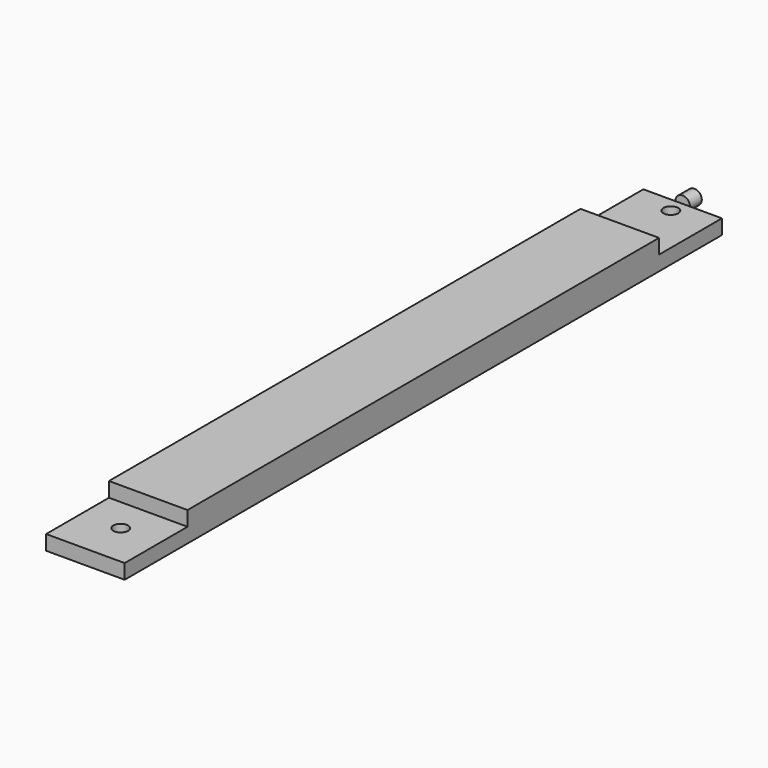
from build123d import *

# Parameters (mm, degrees)
F1_DEPTH = 25.4
F2_R     = 4.7625
F3_DEPTH = 25.4
F5_R     = 4.7625
F6_DEPTH = 9.525


with BuildPart() as f1:
    # F0 (on Right) → F1 (new body, symmetric)
    with BuildSketch(Plane.YZ):
        Polygon((0, -9.525), (482.6, -9.525), (482.6, 0), (431.8, 0), (431.8, 9.525), (50.8, 9.525), (50.8, 0), (0, 0), align=None)
    extrude(amount=F1_DEPTH, both=True)

    # F2 (on Top) → F3 (cut)
    with BuildSketch(Plane.XY):
        with Locations((0, 28.575)):
            Circle(F2_R)
        with Locations((0, 473.075)):
            Circle(F2_R)
    extrude(amount=-F3_DEPTH, mode=Mode.SUBTRACT)

    # F5 (on offset) → F6 (join)
    with BuildSketch(Plane.XZ.offset(-482.6)):
        Circle(F5_R)
    extrude(amount=-F6_DEPTH)


solid = f1.part
